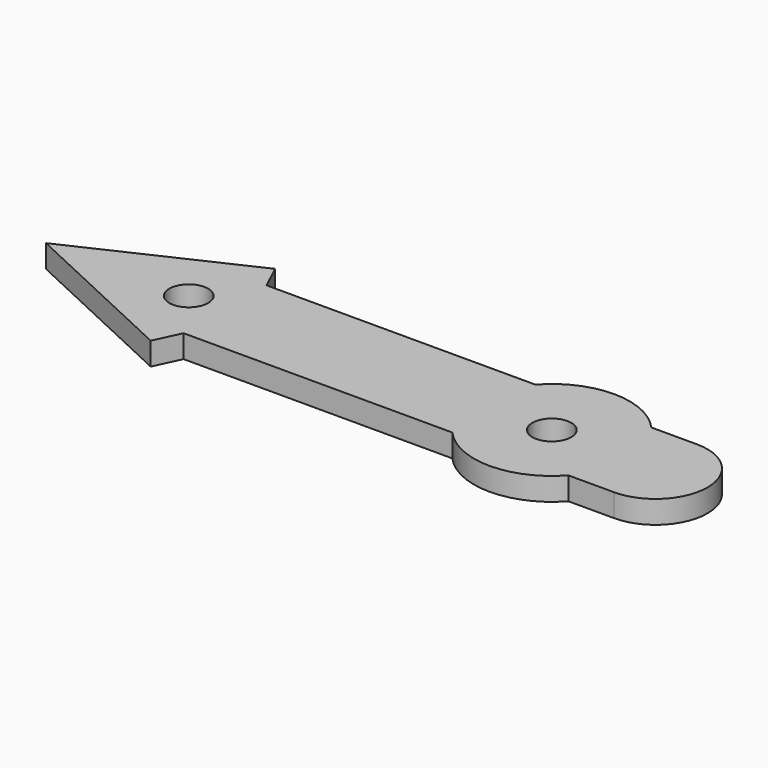
from build123d import *

# Parameters (mm, degrees)
F0_R     = 2.38125
F1_DEPTH = 2.794


with BuildPart() as f1:
    # F0 (on Top) → F1 (new body)
    with BuildSketch(Plane.XY):
        with BuildLine():
            ThreePointArc((-6.35, -6.35), (0, 0), (-6.35, 6.35))
            Line((-6.35, 6.35), (-11.9504841714, 6.35))
            ThreePointArc((-11.9504841714, 6.35), (-10.1520082809, 3.3987304051), (-9.525, 0))
            ThreePointArc((-9.525, 0), (-10.1520082809, -3.3987304051), (-11.9504841714, -6.35))
            Line((-11.9504841714, -6.35), (-6.35, -6.35))
        make_face()
        with BuildLine():
            ThreePointArc((-9.525, 0), (-10.1520082809, 3.3987304051), (-11.9504841714, 6.35))
            Line((-11.9504841714, 6.35), (-26.1495158286, 6.35))
            ThreePointArc((-26.1495158286, 6.35), (-28.575, 0), (-26.1495158286, -6.35))
            Line((-26.1495158286, -6.35), (-11.9504841714, -6.35))
            ThreePointArc((-11.9504841714, -6.35), (-10.1520082809, -3.3987304051), (-9.525, 0))
        make_face()
        with Locations((-19.05, 0)):
            Circle(F0_R, mode=Mode.SUBTRACT)
        with BuildLine():
            Line((-26.1495158286, 6.35), (-11.9504841714, 6.35))
            ThreePointArc((-11.9504841714, 6.35), (-19.05, 9.525), (-26.1495158286, 6.35))
        make_face()
        with BuildLine():
            ThreePointArc((-26.1495158286, -6.35), (-28.575, 0), (-26.1495158286, 6.35))
            Line((-26.1495158286, 6.35), (-59.0555447675, 6.35))
            Line((-59.0555447675, 6.35), (-59.0555447675, -6.35))
            Line((-59.0555447675, -6.35), (-26.1495158286, -6.35))
        make_face()
        with BuildLine():
            ThreePointArc((-26.1495158286, -6.35), (-19.05, -9.525), (-11.9504841714, -6.35))
            Line((-11.9504841714, -6.35), (-26.1495158286, -6.35))
        make_face()
        Polygon((-59.0555447675, -6.35), (-59.0555447675, 6.35), (-60.5360715821, 9.525), (-80.9625, 0), (-60.5360715821, -9.525), align=None)
        with Locations((-63.5, 0)):
            Circle(F0_R, mode=Mode.SUBTRACT)
    extrude(amount=F1_DEPTH)


solid = f1.part
